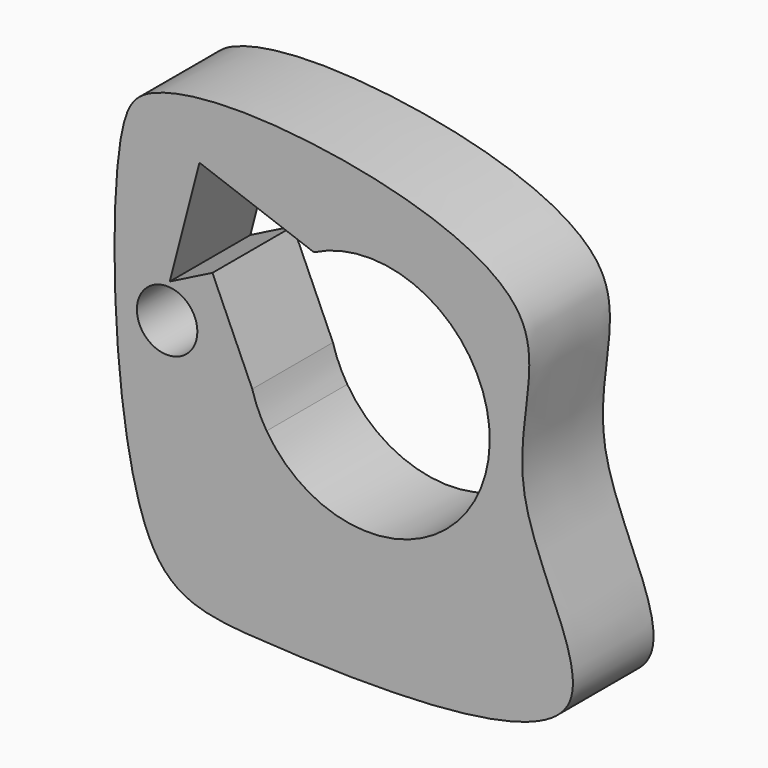
from build123d import *

# Parameters (mm, degrees)
F0_R     = 7.5
F1_DEPTH = 25


with BuildPart() as f1:
    # F0 (on Front) → F1 (new body)
    with BuildSketch(Plane.XZ):
        with BuildLine():
            add(Edge.make_bspline(
                [(-53.6792017519, 48.4497100115), (-47.0296416764, 51.3068371357), (-19.4102949907, 53.9447301786), (52.4226425865, 36.8275815857), (28.3052490011, -8.7638969374), (73.2398551892, -65.2523760217), (-28.2862595213, -62.9626914383), (-62.5759135662, -58.7764162251), (-65.2345022987, 37.8970998278), (-57.9114534315, 46.6312316561), (-53.6792017519, 48.4497100115)],
                knots=[0, 0, 0, 0, 0.109056949, 0.253330401, 0.3688847844, 0.4924162796, 0.65260464, 0.7590290707, 0.9305884223, 1, 1, 1, 1], degree=3))
        make_face()
        with Locations((-50, 0)):
            Circle(F0_R, mode=Mode.SUBTRACT)
        with BuildLine():
            ThreePointArc((-13.5975546519, 26.7414754172), (15.6855564205, 25.57270654), (30, 0))
            ThreePointArc((30, 0), (8.3714287028, -28.8083179216), (-25.3279454316, -16.0777853019))
            ThreePointArc((-25.3279454316, -16.0777853019), (-27.4014171845, -12.2132033588), (-28.8892817206, -8.0876079077))
            Line((-28.8892817206, -8.0876079077), (-38.76143565, 14.0614549042))
            Line((-38.76143565, 14.0614549042), (-49.3514682026, 8.7251623819))
            Line((-49.3514682026, 8.7251623819), (-41.9897474349, 37.0678715408))
            Line((-41.9897474349, 37.0678715408), (-13.5975546519, 26.7414754172))
        make_face(mode=Mode.SUBTRACT)
    extrude(amount=F1_DEPTH)


solid = f1.part
